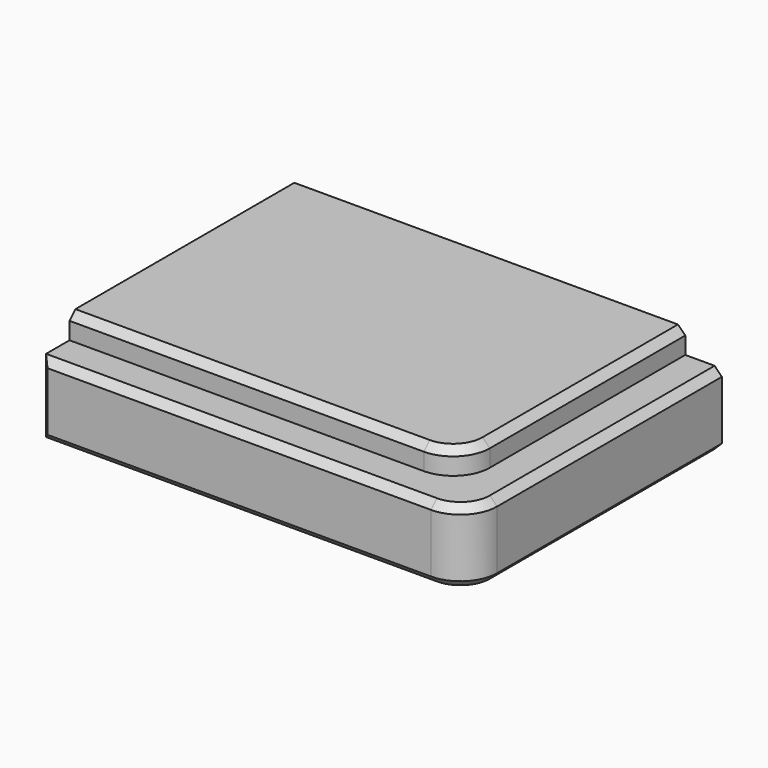
from build123d import *

# Parameters (mm, degrees)
F0_W          = 175
F0_H          = 130
F1_DEPTH      = 15
F1_DEPTH_BACK = 15
F2_W          = 160
F2_H          = 115
F3_DEPTH      = 25
F3_DEPTH_BACK = 25
F4_R          = 15
F5_SIZE       = 3


with BuildPart() as f1:
    # F0 (on Top) → F1 (new body, two sides)
    with BuildSketch(Plane.XY) as f1_sk:
        Rectangle(F0_W, F0_H)
    extrude(amount=F1_DEPTH)
    extrude(f1_sk.sketch, amount=-F1_DEPTH_BACK)

    # F2 (on Top) → F3 (join, two sides)
    with BuildSketch(Plane.XY) as f3_sk:
        with Locations((-7.5, 7.5)):
            Rectangle(F2_W, F2_H)
    extrude(amount=F3_DEPTH)
    extrude(f3_sk.sketch, amount=-F3_DEPTH_BACK)

    # F4
    f4_edges = [f1.edges().sort_by_distance(p)[0] for p in [
        (87.5, -65, 0),
        (72.5, -50, 20),
        (72.5, -50, -20),
    ]]
    fillet(f4_edges, radius=F4_R)

    # F5
    f5_edges = [f1.edges().sort_by_distance(p)[0] for p in [
        (72.5, 15, 25),
        (68.106602, -45.606602, 25),
        (-15, -50, 25),
        (-7.5, -65, 15),
        (72.5, -65, 0),
        (-87.5, -65, 0),
        (-7.5, -65, -15),
        (-15, -50, -25),
        (72.5, 15, -25),
    ]]
    chamfer(f5_edges, length=F5_SIZE)


solid = f1.part
